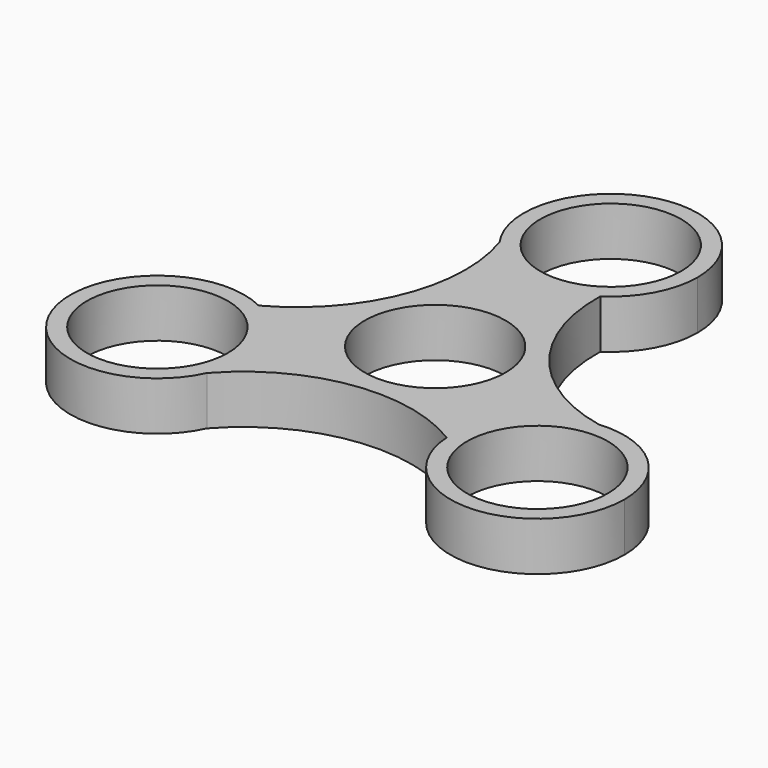
from build123d import *

# Parameters (mm, degrees)
F0_R     = 11.0109
F1_DEPTH = 7.62


with BuildPart() as f1:
    # F0 (on Top) → F1 (new body)
    with BuildSketch(Plane.XY):
        with BuildLine():
            ThreePointArc((7.457027, 22.930229), (-2.538633, 20.940581), (-11.106239, 26.460369))
            ThreePointArc((-11.106239, 26.460369), (-11.625922, 8.457774), (-23.586674, -5.00714))
            ThreePointArc((-23.586674, -5.00714), (-18.127317, -10.016397), (-16.107352, -17.145))
            ThreePointArc((-16.107352, -17.145), (-16.42478, -20.064944), (-17.362233, -22.848469))
            ThreePointArc((-17.362233, -22.848469), (-1.511686, -14.29723), (16.129647, -17.923089))
            ThreePointArc((16.129647, -17.923089), (19.404391, -8.271769), (28.468471, -3.6119))
            ThreePointArc((28.468471, -3.6119), (13.137608, 5.839456), (7.457027, 22.930229))
        make_face()
        Circle(F0_R, mode=Mode.SUBTRACT)
        with BuildLine():
            ThreePointArc((43.28467, -17.145), (38.860372, -7.111748), (28.468471, -3.6119))
            ThreePointArc((28.468471, -3.6119), (19.404391, -8.271769), (16.129647, -17.923089))
            ThreePointArc((16.129647, -17.923089), (30.085215, -30.728084), (43.28467, -17.145))
        make_face()
        with Locations((29.696011, -17.145)):
            Circle(F0_R, mode=Mode.SUBTRACT)
        with BuildLine():
            ThreePointArc((-16.107352, -17.145), (-18.127317, -10.016397), (-23.586674, -5.00714))
            ThreePointArc((-23.586674, -5.00714), (-42.526264, -21.621189), (-17.362233, -22.848469))
            ThreePointArc((-17.362233, -22.848469), (-16.42478, -20.064944), (-16.107352, -17.145))
        make_face()
        with Locations((-29.696011, -17.145)):
            Circle(F0_R, mode=Mode.SUBTRACT)
        with BuildLine():
            ThreePointArc((7.457027, 22.930229), (11.957898, 27.835519), (13.588659, 34.29))
            ThreePointArc((13.588659, 34.29), (-4.10687, 47.243195), (-11.106239, 26.460369))
            ThreePointArc((-11.106239, 26.460369), (-2.538633, 20.940581), (7.457027, 22.930229))
        make_face()
        with Locations((0, 34.29)):
            Circle(F0_R, mode=Mode.SUBTRACT)
    extrude(amount=F1_DEPTH)


solid = f1.part
